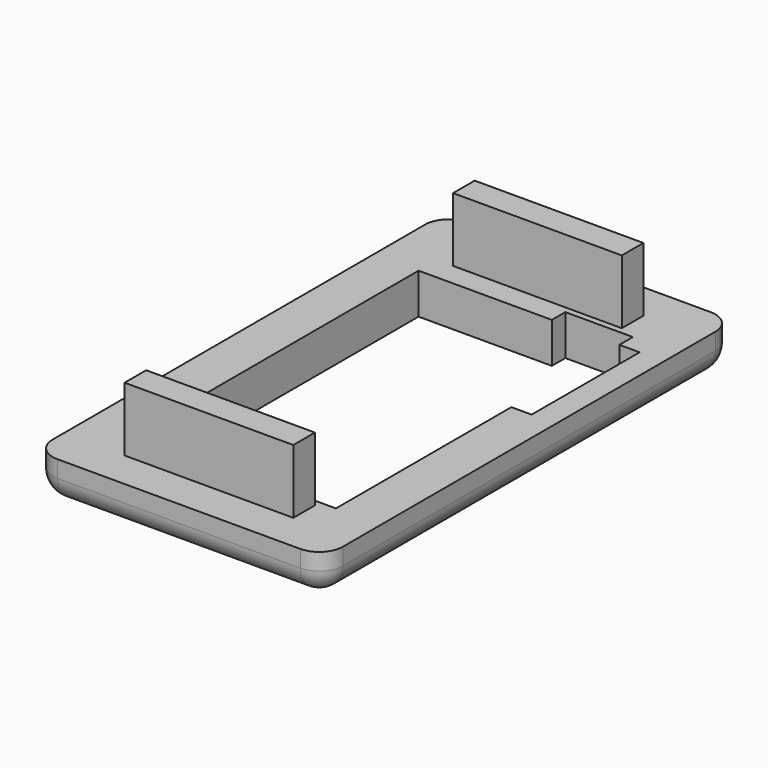
from build123d import *

# Parameters (mm, degrees)
F0_W     = 86
F0_H     = 152
F0_W_2   = 50
F0_H_2   = 8
F1_DEPTH = 12
F2_DEPTH = 31
F3_R     = 7


with BuildPart() as f1:
    # F0 (on Top) → F1 (new body)
    with BuildSketch(Plane.XY):
        Rectangle(F0_W, F0_H)
        with Locations((0, -60.848527)):
            Rectangle(F0_W_2, F0_H_2, mode=Mode.SUBTRACT)
        Polygon((-29.75, -50), (-29.75, 50), (9.75, 50), (9.75, 55), (29.75, 55), (29.75, 50), (35.75, 50), (35.75, 10), (29.75, 10), (29.75, -50), (29.75, -55), (9.75, -55), (9.75, -50), align=None, mode=Mode.SUBTRACT)
        with Locations((0, 60.848527)):
            Rectangle(F0_W_2, F0_H_2, mode=Mode.SUBTRACT)
    extrude(amount=F1_DEPTH)

    # F0 (on Top) → F2 (join)
    with BuildSketch(Plane.XY):
        with Locations((0, 60.848527)):
            Rectangle(F0_W_2, F0_H_2)
        with Locations((0, -60.848527)):
            Rectangle(F0_W_2, F0_H_2)
    extrude(amount=F2_DEPTH)

    # F3
    f3_edges = [f1.edges().sort_by_distance(p)[0] for p in [
        (-43, -76, 6),
        (43, -76, 6),
        (43, 76, 6),
        (-43, 76, 6),
        (43, 0, 0),
        (0, -76, 0),
        (-43, 0, 0),
        (0, 76, 0),
    ]]
    fillet(f3_edges, radius=F3_R)


solid = f1.part
